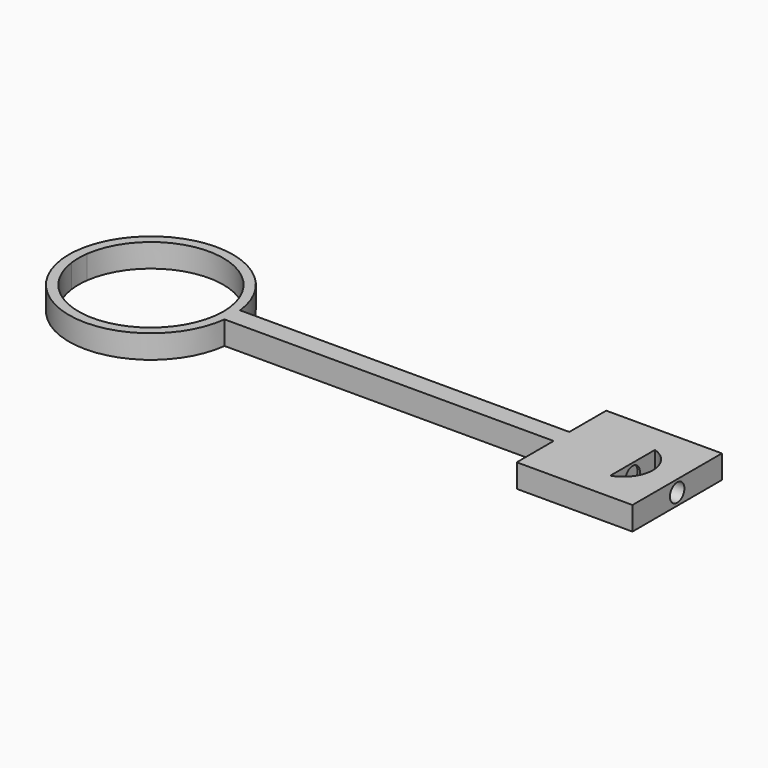
from build123d import *

# Parameters (mm, degrees)
F1_DEPTH = 12.7
F3_DEPTH = 25.4
F4_R     = 4.8895
F5_DEPTH = 25.4


with BuildPart() as f1:
    # F0 (on Top) → F1 (new body)
    with BuildSketch(Plane.XY):
        Polygon((222.6329271213, 5.3004485337), (222.6329271213, 0), (222.6329271213, -5.3004485337), (222.6329271213, -30.3229389596), (285.3670728787, -30.3229389596), (285.3670728787, 30.3229389596), (222.6329271213, 30.3229389596), align=None)
        with BuildLine():
            ThreePointArc((44.1328420266, 5.3004485337), (44.3706396623, 2.654964399), (44.45, 0))
            Line((44.45, 0), (222.6329271213, 0))
            Line((222.6329271213, 0), (222.6329271213, 5.3004485337))
            Line((222.6329271213, 5.3004485337), (44.1328420266, 5.3004485337))
        make_face()
        with BuildLine():
            Line((222.6329271213, 0), (44.45, 0))
            ThreePointArc((44.45, 0), (44.3706396623, -2.654964399), (44.1328420266, -5.3004485337))
            Line((44.1328420266, -5.3004485337), (222.6329271213, -5.3004485337))
            Line((222.6329271213, -5.3004485337), (222.6329271213, 0))
        make_face()
        with BuildLine():
            ThreePointArc((-38.8833935549, 5.3004485337), (0, 39.243), (38.8833935548, 5.3004485337))
            Line((38.8833935548, 5.3004485337), (44.1328420266, 5.3004485337))
            ThreePointArc((44.1328420266, 5.3004485337), (0, 44.45), (-44.1328420266, 5.3004485337))
            Line((-44.1328420266, 5.3004485337), (-38.8833935549, 5.3004485337))
        make_face()
        with BuildLine():
            Line((44.1328420266, -5.3004485337), (38.8833935548, -5.3004485337))
            ThreePointArc((38.8833935548, -5.3004485337), (0, -39.243), (-38.8833935549, -5.3004485337))
            Line((-38.8833935549, -5.3004485337), (-44.1328420266, -5.3004485337))
            ThreePointArc((-44.1328420266, -5.3004485337), (0, -44.45), (44.1328420266, -5.3004485337))
        make_face()
        with BuildLine():
            ThreePointArc((38.8833935548, 5.3004485337), (39.1529951745, 2.656316597), (39.243, 0))
            Line((39.243, 0), (44.45, 0))
            ThreePointArc((44.45, 0), (44.3706396623, 2.654964399), (44.1328420266, 5.3004485337))
            Line((44.1328420266, 5.3004485337), (38.8833935548, 5.3004485337))
        make_face()
        with BuildLine():
            Line((44.45, 0), (39.243, 0))
            ThreePointArc((39.243, 0), (39.1529951745, -2.656316597), (38.8833935548, -5.3004485337))
            Line((38.8833935548, -5.3004485337), (44.1328420266, -5.3004485337))
            ThreePointArc((44.1328420266, -5.3004485337), (44.3706396623, -2.654964399), (44.45, 0))
        make_face()
        with BuildLine():
            ThreePointArc((-38.8833935549, -5.3004485337), (-39.243, 0), (-38.8833935549, 5.3004485337))
            Line((-38.8833935549, 5.3004485337), (-44.1328420266, 5.3004485337))
            ThreePointArc((-44.1328420266, 5.3004485337), (-44.45, 0), (-44.1328420266, -5.3004485337))
            Line((-44.1328420266, -5.3004485337), (-38.8833935549, -5.3004485337))
        make_face()
    extrude(amount=F1_DEPTH)

    # F2 (on face) → F3 (cut)
    with BuildSketch(Plane.XY.offset(12.7)):
        with BuildLine():
            ThreePointArc((261.2282336072, -15.141530461), (269.1570726001, -9.3443922439), (272.182900235, 0))
            ThreePointArc((272.182900235, 0), (269.1570726001, 9.3443922439), (261.2282336072, 15.141530461))
            Line((261.2282336072, 15.141530461), (261.2282336072, -15.141530461))
        make_face()
    extrude(amount=-F3_DEPTH, mode=Mode.SUBTRACT)

    # F4 (on face) → F5 (cut)
    with BuildSketch(Plane.YZ.offset(285.3670728787)):
        with Locations((0, 6.35)):
            Circle(F4_R)
    extrude(amount=-F5_DEPTH, mode=Mode.SUBTRACT)


solid = f1.part
